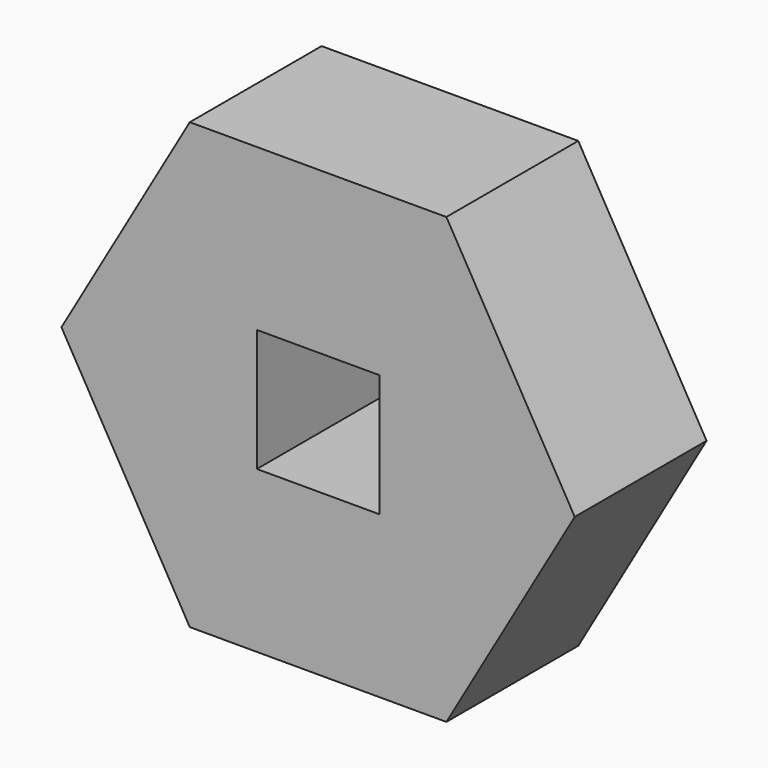
from build123d import *

# Parameters (mm, degrees)
F1_DEPTH = 4.445
F2_W     = 3.302
F2_H     = 3.302
F3_DEPTH = 25.4


with BuildPart() as f1:
    # F0 (on Front) → F1 (new body)
    with BuildSketch(Plane.XZ):
        Polygon((3.460868, 5.9944), (-3.460868, 5.9944), (-6.921737, 0), (-3.460868, -5.9944), (3.460868, -5.9944), (6.921737, 0), align=None)
    extrude(amount=F1_DEPTH)

    # F2 (on face) → F3 (cut)
    with BuildSketch(Plane.XZ.offset(4.445)):
        Rectangle(F2_W, F2_H)
    extrude(amount=-F3_DEPTH, mode=Mode.SUBTRACT)


solid = f1.part
